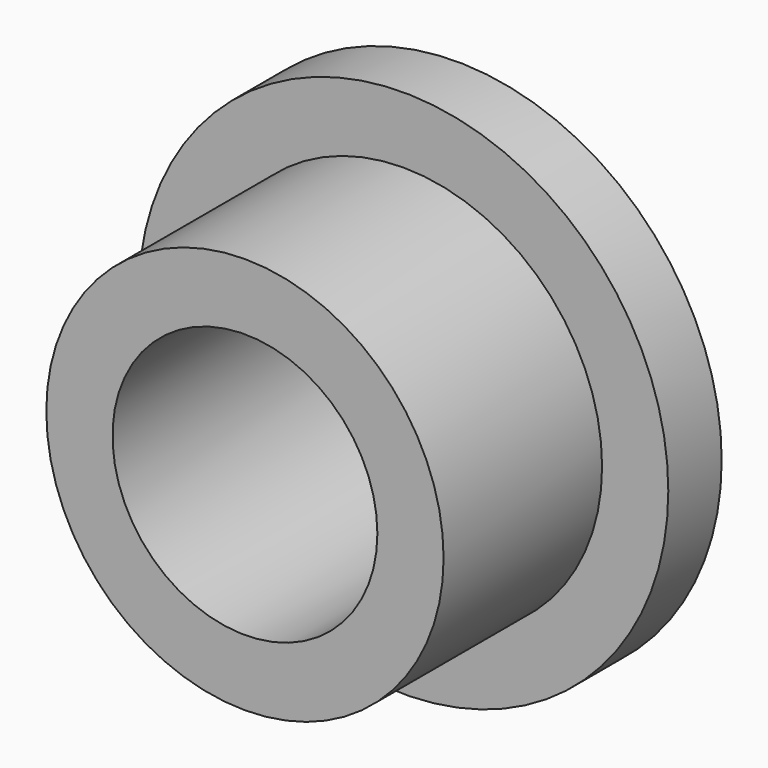
from build123d import *

# Parameters (mm, degrees)
F0_R     = 6.35
F1_DEPTH = 1.6002
F2_R     = 4.7625
F3_DEPTH = 4.7498
F4_R     = 3.175
F5_DEPTH = 12.7


with BuildPart() as f1:
    # F0 (on Front) → F1 (new body)
    with BuildSketch(Plane.XZ):
        Circle(F0_R)
    extrude(amount=-F1_DEPTH)

    # F2 (on face) → F3 (join)
    with BuildSketch(Plane.XZ):
        Circle(F2_R)
    extrude(amount=F3_DEPTH)

    # F4 (on face) → F5 (cut, symmetric)
    with BuildSketch(Plane.XZ):
        Circle(F4_R)
    extrude(amount=F5_DEPTH, both=True, mode=Mode.SUBTRACT)


solid = f1.part
